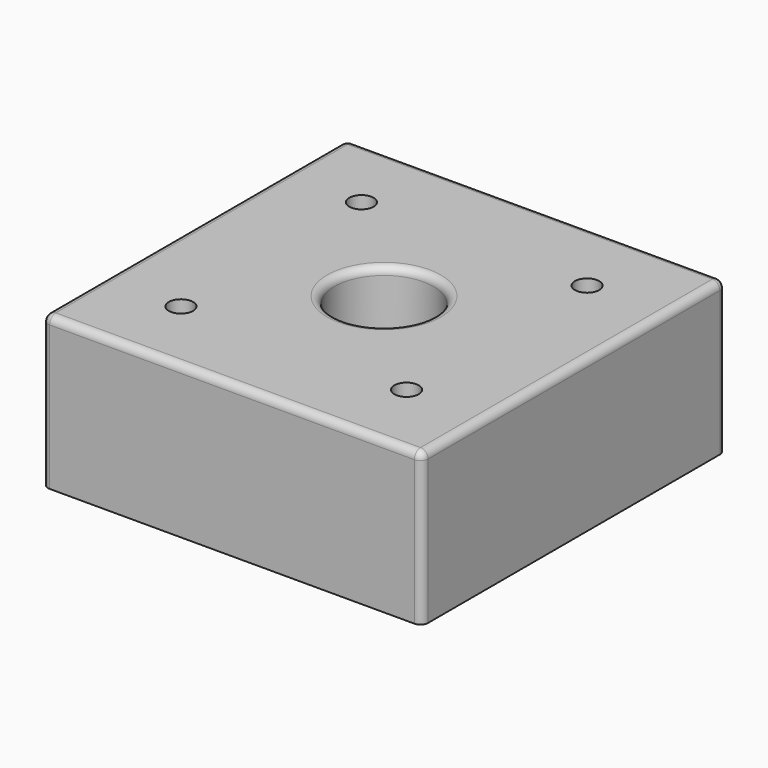
from build123d import *

# Parameters (mm, degrees)
F0_W     = 50
F0_H     = 50
F0_R     = 1.6
F0_R_2   = 6.5
F1_DEPTH = 15
F2_R     = 1
F3_DEPTH = 20
F4_R     = 1


with BuildPart() as f1:
    # F0 (on Top) → F1 (new body)
    with BuildSketch(Plane.XY):
        Rectangle(F0_W, F0_H)
        with Locations((-14.849242, -14.849242)):
            Circle(F0_R, mode=Mode.SUBTRACT)
        with Locations((14.849242, -14.849242)):
            Circle(F0_R, mode=Mode.SUBTRACT)
        with Locations((-14.849242, 14.849242)):
            Circle(F0_R, mode=Mode.SUBTRACT)
        Circle(F0_R_2, mode=Mode.SUBTRACT)
        with Locations((14.849242, 14.849242)):
            Circle(F0_R, mode=Mode.SUBTRACT)
    extrude(amount=F1_DEPTH)

    # F2
    f2_edges = [f1.edges().sort_by_distance(p)[0] for p in [
        (-25, -25, 7.5),
        (25, -25, 7.5),
        (25, 25, 7.5),
        (-25, 25, 7.5),
        (0, 25, 15),
        (25, 0, 15),
        (0, -25, 15),
        (-25, 0, 15),
        (-6.5, 0, 15),
        (-6.5, 0, 0),
    ]]
    fillet(f2_edges, radius=F2_R)


with BuildPart() as f3:
    # F0 (on Top) → F3 (new body)
    with BuildSketch(Plane.XY):
        Rectangle(F0_W, F0_H)
        with Locations((-14.849242, -14.849242)):
            Circle(F0_R, mode=Mode.SUBTRACT)
        with Locations((14.849242, -14.849242)):
            Circle(F0_R, mode=Mode.SUBTRACT)
        with Locations((-14.849242, 14.849242)):
            Circle(F0_R, mode=Mode.SUBTRACT)
        Circle(F0_R_2, mode=Mode.SUBTRACT)
        with Locations((14.849242, 14.849242)):
            Circle(F0_R, mode=Mode.SUBTRACT)
    extrude(amount=F3_DEPTH)

    # F4
    f4_edges = [f3.edges().sort_by_distance(p)[0] for p in [
        (-25, -25, 10),
        (25, -25, 10),
        (25, 25, 10),
        (-25, 25, 10),
        (0, 25, 20),
        (-25, 0, 20),
        (0, -25, 20),
        (25, 0, 20),
        (-6.5, 0, 20),
        (-6.5, 0, 0),
    ]]
    fillet(f4_edges, radius=F4_R)


solid = Compound([f1.part, f3.part])
